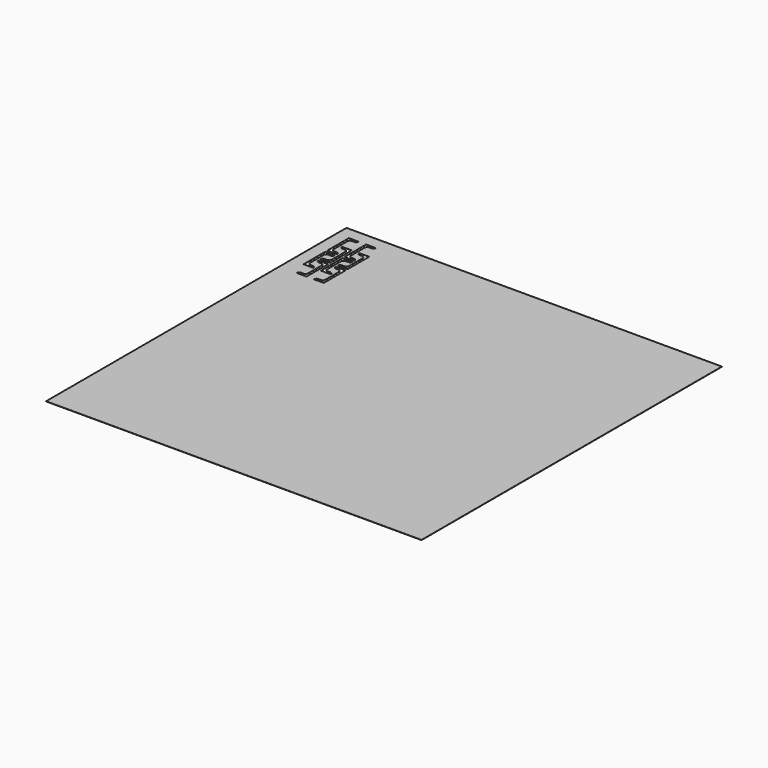
from build123d import *

# Parameters (mm, degrees)
F0_W     = 304.8
F0_H     = 304.8
F1_DEPTH = 0.15


with BuildPart() as f1:
    # F0 (on Top) → F1 (new body)
    with BuildSketch(Plane.XY):
        Rectangle(F0_W, F0_H)
        with BuildLine():
            Line((-132.4, 88.4), (-132.4, 95.4))
            Line((-132.4, 95.4), (-132.4, 102.4))
            ThreePointArc((-132.4, 102.4), (-132.985786, 103.814214), (-134.4, 104.4))
            Line((-134.4, 104.4), (-136.4, 104.4))
            ThreePointArc((-136.4, 104.4), (-137.814214, 104.985786), (-138.4, 106.4))
            Line((-138.4, 106.4), (-130.4, 106.4))
            Line((-130.4, 106.4), (-130.4, 95.4))
            Line((-130.4, 95.4), (-130.4, 84.4))
            Line((-130.4, 84.4), (-138.4, 84.4))
            ThreePointArc((-138.4, 84.4), (-137.814214, 85.814214), (-136.4, 86.4))
            Line((-136.4, 86.4), (-134.4, 86.4))
            ThreePointArc((-134.4, 86.4), (-132.985786, 86.985786), (-132.4, 88.4))
        make_face(mode=Mode.SUBTRACT)
        with BuildLine():
            Line((-140.4, 114.4), (-140.4, 107.4))
            Line((-140.4, 107.4), (-140.4, 100.4))
            ThreePointArc((-140.4, 100.4), (-139.814214, 98.985786), (-138.4, 98.4))
            Line((-138.4, 98.4), (-136.4, 98.4))
            ThreePointArc((-136.4, 98.4), (-134.985786, 97.814214), (-134.4, 96.4))
            Line((-134.4, 96.4), (-142.4, 96.4))
            Line((-142.4, 96.4), (-142.4, 107.4))
            Line((-142.4, 107.4), (-142.4, 118.4))
            Line((-142.4, 118.4), (-134.4, 118.4))
            ThreePointArc((-134.4, 118.4), (-134.985786, 116.985786), (-136.4, 116.4))
            Line((-136.4, 116.4), (-138.4, 116.4))
            ThreePointArc((-138.4, 116.4), (-139.814214, 115.814214), (-140.4, 114.4))
        make_face(mode=Mode.SUBTRACT)
        with BuildLine():
            Line((-118.4, 88.4), (-118.4, 95.4))
            Line((-118.4, 95.4), (-118.4, 102.4))
            ThreePointArc((-118.4, 102.4), (-118.985786, 103.814214), (-120.4, 104.4))
            Line((-120.4, 104.4), (-122.4, 104.4))
            ThreePointArc((-122.4, 104.4), (-123.814214, 104.985786), (-124.4, 106.4))
            Line((-124.4, 106.4), (-116.4, 106.4))
            Line((-116.4, 106.4), (-116.4, 95.4))
            Line((-116.4, 95.4), (-116.4, 84.4))
            Line((-116.4, 84.4), (-124.4, 84.4))
            ThreePointArc((-124.4, 84.4), (-123.814214, 85.814214), (-122.4, 86.4))
            Line((-122.4, 86.4), (-120.4, 86.4))
            ThreePointArc((-120.4, 86.4), (-118.985786, 86.985786), (-118.4, 88.4))
        make_face(mode=Mode.SUBTRACT)
        with BuildLine():
            Line((-126.4, 114.4), (-126.4, 107.4))
            Line((-126.4, 107.4), (-126.4, 100.4))
            ThreePointArc((-126.4, 100.4), (-125.814214, 98.985786), (-124.4, 98.4))
            Line((-124.4, 98.4), (-122.4, 98.4))
            ThreePointArc((-122.4, 98.4), (-120.985786, 97.814214), (-120.4, 96.4))
            Line((-120.4, 96.4), (-128.4, 96.4))
            Line((-128.4, 96.4), (-128.4, 107.4))
            Line((-128.4, 107.4), (-128.4, 118.4))
            Line((-128.4, 118.4), (-120.4, 118.4))
            ThreePointArc((-120.4, 118.4), (-120.985786, 116.985786), (-122.4, 116.4))
            Line((-122.4, 116.4), (-124.4, 116.4))
            ThreePointArc((-124.4, 116.4), (-125.814214, 115.814214), (-126.4, 114.4))
        make_face(mode=Mode.SUBTRACT)
        with BuildLine():
            Line((-130.4, 108.4), (-138.4, 108.4))
            ThreePointArc((-138.4, 108.4), (-137.814214, 109.814214), (-136.4, 110.4))
            Line((-136.4, 110.4), (-134.4, 110.4))
            ThreePointArc((-134.4, 110.4), (-132.985786, 110.985786), (-132.4, 112.4))
            Line((-132.4, 112.4), (-132.4, 119.4))
            Line((-132.4, 119.4), (-132.4, 126.4))
            ThreePointArc((-132.4, 126.4), (-132.985786, 127.814214), (-134.4, 128.4))
            Line((-134.4, 128.4), (-136.4, 128.4))
            ThreePointArc((-136.4, 128.4), (-137.814214, 128.985786), (-138.4, 130.4))
            Line((-138.4, 130.4), (-130.4, 130.4))
            Line((-130.4, 130.4), (-130.4, 119.4))
            Line((-130.4, 119.4), (-130.4, 108.4))
        make_face(mode=Mode.SUBTRACT)
        with BuildLine():
            Line((-142.4, 142.4), (-134.4, 142.4))
            ThreePointArc((-134.4, 142.4), (-134.985786, 140.985786), (-136.4, 140.4))
            Line((-136.4, 140.4), (-138.4, 140.4))
            ThreePointArc((-138.4, 140.4), (-139.814214, 139.814214), (-140.4, 138.4))
            Line((-140.4, 138.4), (-140.4, 131.4))
            Line((-140.4, 131.4), (-140.4, 124.4))
            ThreePointArc((-140.4, 124.4), (-139.814214, 122.985786), (-138.4, 122.4))
            Line((-138.4, 122.4), (-136.4, 122.4))
            ThreePointArc((-136.4, 122.4), (-134.985786, 121.814214), (-134.4, 120.4))
            Line((-134.4, 120.4), (-142.4, 120.4))
            Line((-142.4, 120.4), (-142.4, 131.4))
            Line((-142.4, 131.4), (-142.4, 142.4))
        make_face(mode=Mode.SUBTRACT)
        with BuildLine():
            Line((-118.4, 112.4), (-118.4, 119.4))
            Line((-118.4, 119.4), (-118.4, 126.4))
            ThreePointArc((-118.4, 126.4), (-118.985786, 127.814214), (-120.4, 128.4))
            Line((-120.4, 128.4), (-122.4, 128.4))
            ThreePointArc((-122.4, 128.4), (-123.814214, 128.985786), (-124.4, 130.4))
            Line((-124.4, 130.4), (-116.4, 130.4))
            Line((-116.4, 130.4), (-116.4, 119.4))
            Line((-116.4, 119.4), (-116.4, 108.4))
            Line((-116.4, 108.4), (-124.4, 108.4))
            ThreePointArc((-124.4, 108.4), (-123.814214, 109.814214), (-122.4, 110.4))
            Line((-122.4, 110.4), (-120.4, 110.4))
            ThreePointArc((-120.4, 110.4), (-118.985786, 110.985786), (-118.4, 112.4))
        make_face(mode=Mode.SUBTRACT)
        with BuildLine():
            Line((-126.4, 138.4), (-126.4, 131.4))
            Line((-126.4, 131.4), (-126.4, 124.4))
            ThreePointArc((-126.4, 124.4), (-125.814214, 122.985786), (-124.4, 122.4))
            Line((-124.4, 122.4), (-122.4, 122.4))
            ThreePointArc((-122.4, 122.4), (-120.985786, 121.814214), (-120.4, 120.4))
            Line((-120.4, 120.4), (-128.4, 120.4))
            Line((-128.4, 120.4), (-128.4, 131.4))
            Line((-128.4, 131.4), (-128.4, 142.4))
            Line((-128.4, 142.4), (-120.4, 142.4))
            ThreePointArc((-120.4, 142.4), (-120.985786, 140.985786), (-122.4, 140.4))
            Line((-122.4, 140.4), (-124.4, 140.4))
            ThreePointArc((-124.4, 140.4), (-125.814214, 139.814214), (-126.4, 138.4))
        make_face(mode=Mode.SUBTRACT)
    extrude(amount=F1_DEPTH)


solid = f1.part
